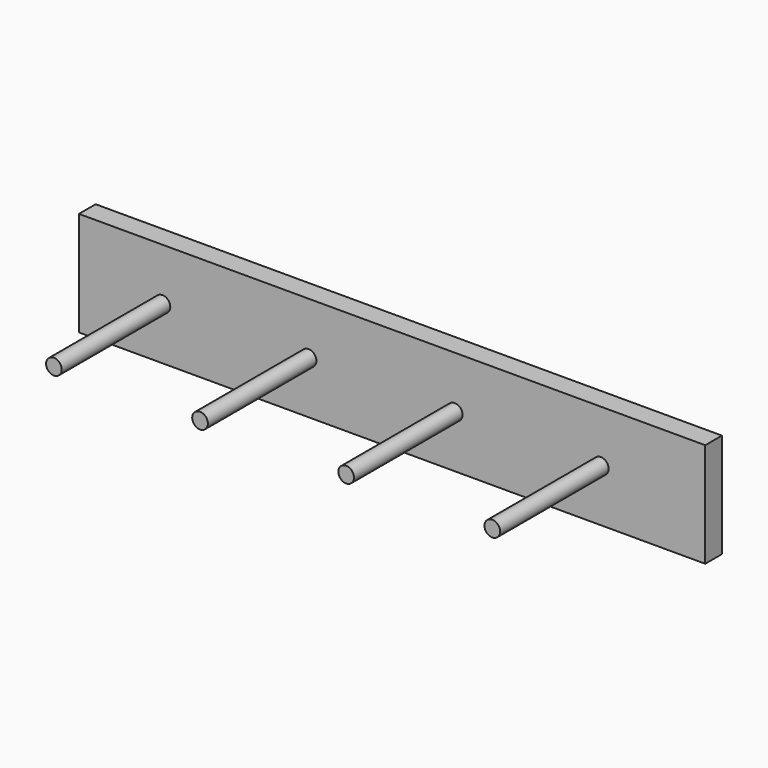
from build123d import *

# Parameters (mm, degrees)
F0_W     = 600
F0_H     = 100
F1_DEPTH = 20
F2_R     = 7.5
F3_DEPTH = 130


with BuildPart() as f1:
    # F0 (on Front) → F1 (new body)
    with BuildSketch(Plane.XZ):
        Rectangle(F0_W, F0_H)
    extrude(amount=F1_DEPTH)

    # F2 (on face) → F3 (join)
    with BuildSketch(Plane.XZ.offset(20)):
        with Locations((-220, 0)):
            Circle(F2_R)
        with Locations((-80, 0)):
            Circle(F2_R)
        with Locations((60, 0)):
            Circle(F2_R)
        with Locations((200, 0)):
            Circle(F2_R)
    extrude(amount=F3_DEPTH)


solid = f1.part
